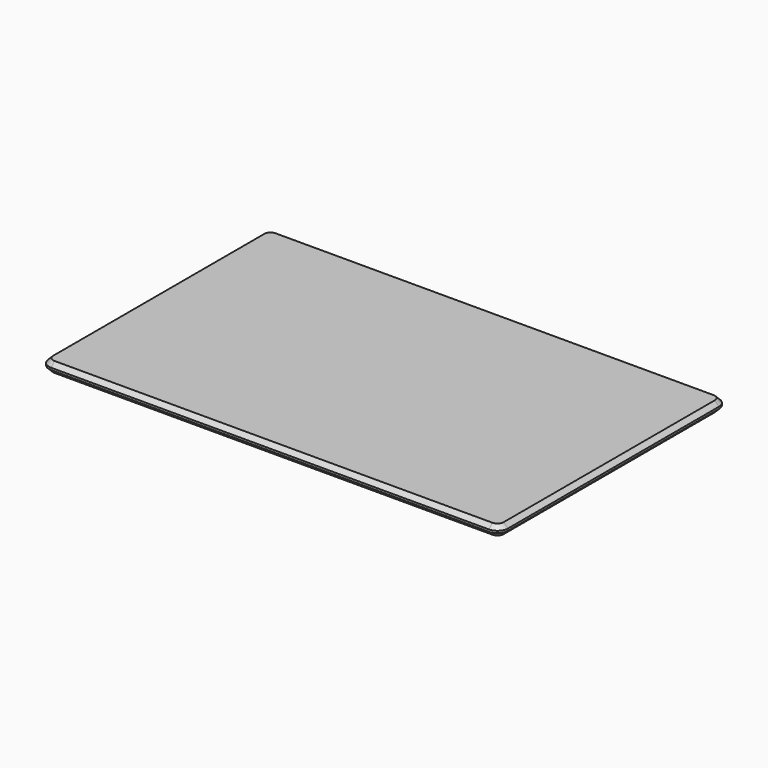
from build123d import *

# Parameters (mm, degrees)
BOX_W           = 43.5
BOX_H           = 27
BOX_DEPTH       = 1
FILLET001_R     = 1
CHAMFER002_SIZE = 0.4


with BuildPart() as part:
    # Box → Box (new body)
    with BuildSketch(Plane(origin=(0, 24, 0), x_dir=(1, 0, 0), z_dir=(0, 0, 1))):
        with Locations((21.75, 13.5)):
            Rectangle(BOX_W, BOX_H)
    extrude(amount=BOX_DEPTH)

    # Fillet001
    fillet001_edges = [part.edges().sort_by_distance(p)[0] for p in [
        (0, 24, 0.5),
        (0, 51, 0.5),
        (43.5, 24, 0.5),
        (43.5, 51, 0.5),
    ]]
    fillet(fillet001_edges, radius=FILLET001_R)

    # Chamfer002
    chamfer002_edges = [part.edges().sort_by_distance(p)[0] for p in [
        (0, 37.5, 1),
        (0, 37.5, 0),
        (0.292893, 24.292893, 1),
        (21.75, 24, 1),
        (43.207107, 24.292893, 1),
        (43.5, 37.5, 1),
        (43.207107, 50.707107, 1),
        (21.75, 51, 1),
        (0.292893, 50.707107, 1),
        (0.292893, 24.292893, 0),
        (0.292893, 50.707107, 0),
        (21.75, 24, 0),
        (43.207107, 24.292893, 0),
        (43.5, 37.5, 0),
        (43.207107, 50.707107, 0),
        (21.75, 51, 0),
    ]]
    chamfer(chamfer002_edges, length=CHAMFER002_SIZE)


with BuildPart() as part_1:
    # Chamfer002 placement: moved
    add(part.part.moved(Location((0, -130.5, 0))))


solid = part_1.part
